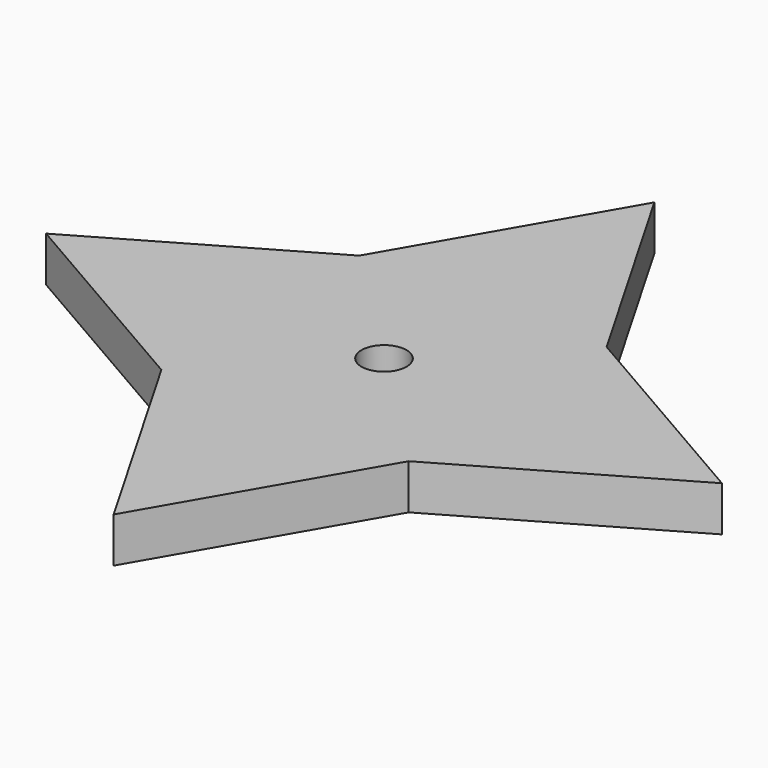
from build123d import *

# Parameters (mm, degrees)
F1_DEPTH = 2
F2_R     = 1
F3_DEPTH = 2.001


with BuildPart() as f1:
    # F0 (on Top) → F1 (new body)
    with BuildSketch(Plane.XY):
        with BuildLine():
            ThreePointArc((6.4951905284, 3.75), (7.2444436972, 1.9411428383), (7.5, 0))
            ThreePointArc((7.5, 0), (7.2444436972, -1.9411428383), (6.4951905284, -3.75))
            Line((6.4951905284, -3.75), (5.4903810568, -5.4903810568))
            Line((5.4903810568, -5.4903810568), (15, 0))
            Line((15, 0), (5.4903810568, 5.4903810568))
            Line((5.4903810568, 5.4903810568), (6.4951905284, 3.75))
        make_face()
        with BuildLine():
            ThreePointArc((3.75, 6.4951905284), (5.3033008589, 5.3033008589), (6.4951905284, 3.75))
            Line((6.4951905284, 3.75), (5.4903810568, 5.4903810568))
            Line((5.4903810568, 5.4903810568), (3.75, 6.4951905284))
        make_face()
        with BuildLine():
            Line((5.4903810568, -5.4903810568), (6.4951905284, -3.75))
            ThreePointArc((6.4951905284, -3.75), (5.3033008589, -5.3033008589), (3.75, -6.4951905284))
            Line((3.75, -6.4951905284), (5.4903810568, -5.4903810568))
        make_face()
        with BuildLine():
            ThreePointArc((-3.75, 6.4951905284), (0, 7.5), (3.75, 6.4951905284))
            Line((3.75, 6.4951905284), (5.4903810568, 5.4903810568))
            Line((5.4903810568, 5.4903810568), (0, 15))
            Line((0, 15), (-5.4903810568, 5.4903810568))
            Line((-5.4903810568, 5.4903810568), (-3.75, 6.4951905284))
        make_face()
        with BuildLine():
            Line((5.4903810568, -5.4903810568), (3.75, -6.4951905284))
            ThreePointArc((3.75, -6.4951905284), (0, -7.5), (-3.75, -6.4951905284))
            Line((-3.75, -6.4951905284), (-5.4903810568, -5.4903810568))
            Line((-5.4903810568, -5.4903810568), (0, -15))
            Line((0, -15), (5.4903810568, -5.4903810568))
        make_face()
        with BuildLine():
            ThreePointArc((-6.4951905284, 3.75), (-5.3033008589, 5.3033008589), (-3.75, 6.4951905284))
            Line((-3.75, 6.4951905284), (-5.4903810568, 5.4903810568))
            Line((-5.4903810568, 5.4903810568), (-6.4951905284, 3.75))
        make_face()
        with BuildLine():
            Line((-5.4903810568, -5.4903810568), (-3.75, -6.4951905284))
            ThreePointArc((-3.75, -6.4951905284), (-5.3033008589, -5.3033008589), (-6.4951905284, -3.75))
            Line((-6.4951905284, -3.75), (-5.4903810568, -5.4903810568))
        make_face()
        with BuildLine():
            ThreePointArc((-6.4951905284, -3.75), (-7.5, 0), (-6.4951905284, 3.75))
            Line((-6.4951905284, 3.75), (-5.4903810568, 5.4903810568))
            Line((-5.4903810568, 5.4903810568), (-15, 0))
            Line((-15, 0), (-5.4903810568, -5.4903810568))
            Line((-5.4903810568, -5.4903810568), (-6.4951905284, -3.75))
        make_face()
        with BuildLine():
            ThreePointArc((6.4951905284, -3.75), (7.2444436972, -1.9411428383), (7.5, 0))
            ThreePointArc((7.5, 0), (7.2444436972, 1.9411428383), (6.4951905284, 3.75))
            ThreePointArc((6.4951905284, 3.75), (5.3033008589, 5.3033008589), (3.75, 6.4951905284))
            ThreePointArc((3.75, 6.4951905284), (0, 7.5), (-3.75, 6.4951905284))
            ThreePointArc((-3.75, 6.4951905284), (-5.3033008589, 5.3033008589), (-6.4951905284, 3.75))
            ThreePointArc((-6.4951905284, 3.75), (-7.5, 0), (-6.4951905284, -3.75))
            ThreePointArc((-6.4951905284, -3.75), (-5.3033008589, -5.3033008589), (-3.75, -6.4951905284))
            ThreePointArc((-3.75, -6.4951905284), (0, -7.5), (3.75, -6.4951905284))
            ThreePointArc((3.75, -6.4951905284), (5.3033008589, -5.3033008589), (6.4951905284, -3.75))
        make_face()
    extrude(amount=F1_DEPTH)

    # F2 (on face) → F3 (cut, through all)
    with BuildSketch(Plane.XY.offset(2)):
        Circle(F2_R)
    extrude(amount=-F3_DEPTH, mode=Mode.SUBTRACT)


solid = f1.part
